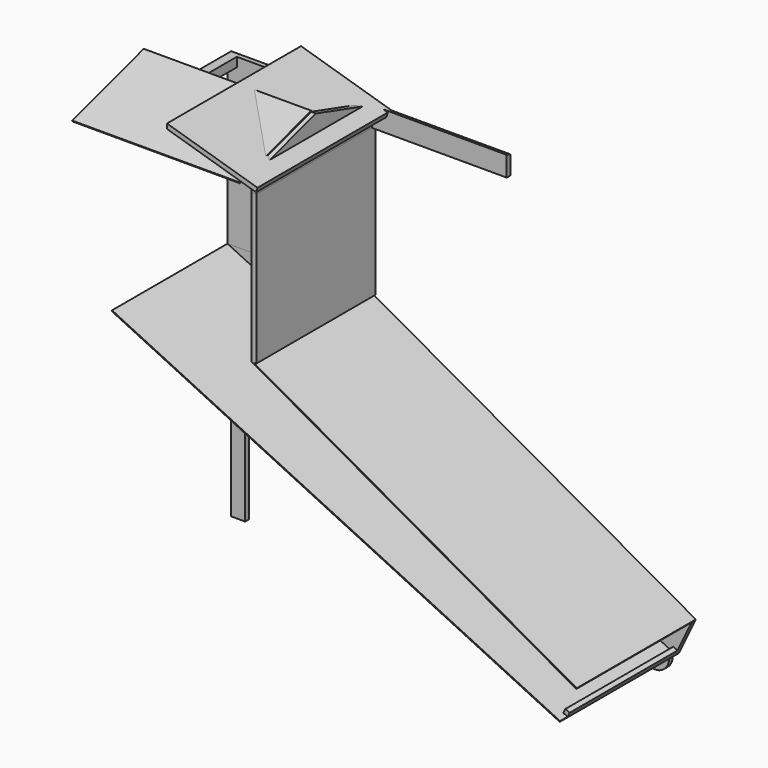
from build123d import *

# Parameters (mm, degrees)
F1_DEPTH  = 25
F2_DEPTH  = 25
F3_W      = 50
F3_H      = 50
F4_DEPTH  = 750
F5_W      = 25
F5_H      = 900
F6_DEPTH  = 800
F8_DEPTH  = 800
F9_W      = 750
F9_H      = 25
F9_R      = 2.5
F10_DEPTH = 20
F12_DEPTH = 900
F14_DEPTH = 800
F16_DEPTH = 900
F17_DEPTH = 25
F19_DEPTH = 725
F21_W     = 75
F21_H     = 1300
F22_DEPTH = 25
F23_W     = 75
F23_H     = 300
F23_R     = 4
F24_DEPTH = 25
F25_R     = 75
F25_R_2   = 4
F26_DEPTH = 25
F27_R     = 4
F28_DEPTH = 925.001
F29_R     = 2.5
F30_DEPTH = 900.001


with BuildPart() as f1:
    # F0 (on Front) → F1 (new body)
    with BuildSketch(Plane.XZ):
        Polygon((-750, 0), (1656.6848435524, -1160.0232158931), (1743.5238650638, -979.8594449986), (0, 0), align=None)
    extrude(amount=F1_DEPTH)


with BuildPart() as f2:
    # F0 (on Front) → F2 (new body)
    with BuildSketch(Plane.XZ):
        Polygon((-750, 900), (-750, 0), (0, 0), (0, 200), (0, 900), align=None)
    extrude(amount=F2_DEPTH)

    # F29 (on face) → F30 (cut, through all)
    with BuildSketch(Plane.XZ):
        with Locations((-375, 60)):
            Circle(F29_R)
        with Locations((-375, 110)):
            Circle(F29_R)
        with Locations((-375, 160)):
            Circle(F29_R)
        with Locations((-375, 210)):
            Circle(F29_R)
        with Locations((-375, 260)):
            Circle(F29_R)
        with Locations((-375, 310)):
            Circle(F29_R)
        with Locations((-375, 360)):
            Circle(F29_R)
        with Locations((-375, 410)):
            Circle(F29_R)
        with Locations((-375, 460)):
            Circle(F29_R)
        with Locations((-375, 510)):
            Circle(F29_R)
        with Locations((-375, 560)):
            Circle(F29_R)
        with Locations((-375, 610)):
            Circle(F29_R)
        with Locations((-375, 660)):
            Circle(F29_R)
        with Locations((-375, 710)):
            Circle(F29_R)
        with Locations((-375, 760)):
            Circle(F29_R)
        with Locations((-375, 810)):
            Circle(F29_R)
    extrude(amount=F30_DEPTH, mode=Mode.SUBTRACT)


with BuildPart() as f4:
    # F3 (on Front) → F4 (new body)
    with BuildSketch(Plane.XZ):
        with Locations((-725, 875)):
            Rectangle(F3_W, F3_H)
    extrude(amount=F4_DEPTH)


with BuildPart() as f4b:
    # F3 (on Front) → F4, piece 2 (new body)
    with BuildSketch(Plane.XZ):
        Polygon((1656.6848435524, -1160.0232158931), (1667.5397212413, -1137.5027445313), (1645.0192498795, -1126.6478668424), (1634.1643721905, -1149.1683382042), align=None)
    extrude(amount=F4_DEPTH)


with BuildPart() as f6:
    # F5 (on Front) → F6 (new body)
    with BuildSketch(Plane.XZ):
        with Locations((12.5, 450)):
            Rectangle(F5_W, F5_H)
    extrude(amount=F6_DEPTH)


with BuildPart() as f8:
    # F7 (on Front) → F8 (new body)
    with BuildSketch(Plane.XZ):
        Polygon((1656.6848435524, -1160.0232158931), (-750, 0), (-752.1709755378, -4.5040942724), (1654.5138680146, -1164.5273101655), align=None)
    extrude(amount=F8_DEPTH)


with BuildPart() as f10:
    # F9 (on Front) → F10 (new body)
    with BuildSketch(Plane.XZ):
        with Locations((-375, 472.4463045597)):
            Rectangle(F9_W, F9_H)
        with Locations((-375, 472.4463045597)):
            Circle(F9_R, mode=Mode.SUBTRACT)
    extrude(amount=F10_DEPTH)


with BuildPart() as f12:
    # F11 (on Front) → F12 (new body)
    with BuildSketch(Plane.XZ):
        Polygon((-375, 1046.1007662723), (-375, 1020), (103.9131426106, 876.3260572168), (111.0968397497, 900.2717143474), align=None)
    extrude(amount=F12_DEPTH)


with BuildPart() as f14:
    # F13 (on Front) → F14 (new body)
    with BuildSketch(Plane.XZ):
        Polygon((0, 0), (1743.5238650638, -979.8594449986), (1745.6948406016, -975.3553507262), (10.1853860682, 0), align=None)
    extrude(amount=F14_DEPTH)


with BuildPart() as f16:
    # F15 (on Right) → F16 (new body)
    with BuildSketch(Plane.YZ):
        Polygon((-800, 900), (-400, 1020), (-400, 1025.2201532545), (-880.3498820384, 881.1151886429), (-878.9131426106, 876.3260572168), align=None)
    extrude(amount=-F16_DEPTH)


with BuildPart() as f17:
    # F15 (on Right) → F17 (new body)
    with BuildSketch(Plane.YZ):
        Polygon((0, 900), (-400, 1020), (-800, 900), (-800, 800), (0, 800), align=None)
    extrude(amount=F17_DEPTH)


with BuildPart() as f19:
    # F18 (on face) → F19 (new body)
    with BuildSketch(Plane.YZ.offset(25)):
        Polygon((-25, 800), (0, 800), (0, 900), (-25, 907.5), align=None)
    extrude(amount=F19_DEPTH)


with BuildPart() as f22:
    # F21 (on Front) → F22 (new body)
    with BuildSketch(Plane.XZ):
        with Locations((-712.5, -650)):
            Rectangle(F21_W, F21_H)
    extrude(amount=-F22_DEPTH)


with BuildPart() as f24:
    # F23 (on Front) → F24 (new body)
    with BuildSketch(Plane.XZ):
        with Locations((1506.6848435524, -1105)):
            Rectangle(F23_W, F23_H)
        with Locations((1506.6848435524, -1225)):
            Circle(F23_R, mode=Mode.SUBTRACT)
    extrude(amount=-F24_DEPTH)


with BuildPart() as f26:
    # F25 (on face) → F26 (new body)
    with BuildSketch(Plane(origin=(0, 25, 0), x_dir=(-1, 0, 0), z_dir=(0, 1, 0))):
        with Locations((-1506.6848435524, -1225)):
            Circle(F25_R)
        with Locations((-1506.6848435524, -1225)):
            Circle(F25_R_2, mode=Mode.SUBTRACT)
    extrude(amount=F26_DEPTH)


with BuildPart() as f28_tool:
    # F27 (on face) → F28 (new body, through all)
    with BuildSketch(Plane(origin=(0, 25, 0), x_dir=(-1, 0, 0), z_dir=(0, 1, 0))):
        with Locations((-1506.6848435524, -985)):
            Circle(F27_R)
    extrude(amount=-F28_DEPTH)


with BuildPart() as f1_1:
    add(f1.part)

    # F28: cut by f28_tool
    add(f28_tool.part, mode=Mode.SUBTRACT)


with BuildPart() as f24_1:
    add(f24.part)

    # F28: cut by f28_tool
    add(f28_tool.part, mode=Mode.SUBTRACT)


solid = Compound([f2.part, f4.part, f4b.part, f6.part, f8.part, f10.part, f12.part, f14.part, f16.part, f17.part, f19.part, f22.part, f26.part, f1_1.part, f24_1.part])
